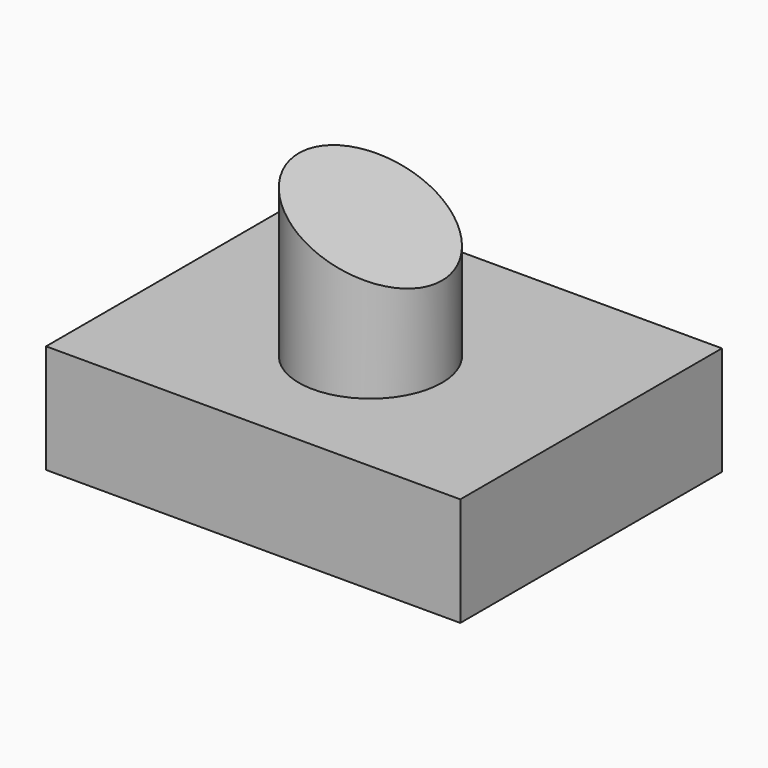
from build123d import *

# Parameters (mm, degrees)
F0_W     = 96.682288
F0_H     = 76.328121
F1_DEPTH = 25.4
F2_R     = 16.695936
F3_DEPTH = 38.1
F5_DEPTH = 38.1


with BuildPart() as f1:
    # F0 (on Top) → F1 (new body)
    with BuildSketch(Plane.XY):
        with Locations((-0.299327, 4.340227)):
            Rectangle(F0_W, F0_H)
    extrude(amount=F1_DEPTH)

    # F2 (on face) → F3 (join)
    with BuildSketch(Plane.XY.offset(25.4)):
        Circle(F2_R)
    extrude(amount=F3_DEPTH)

    # F4 (on Front) → F5 (cut, symmetric)
    with BuildSketch(Plane.XZ):
        Polygon((41.456647, 69.144301), (-32.776196, 69.144301), (41.456647, 35.021137), align=None)
    extrude(amount=F5_DEPTH, both=True, mode=Mode.SUBTRACT)


solid = f1.part
